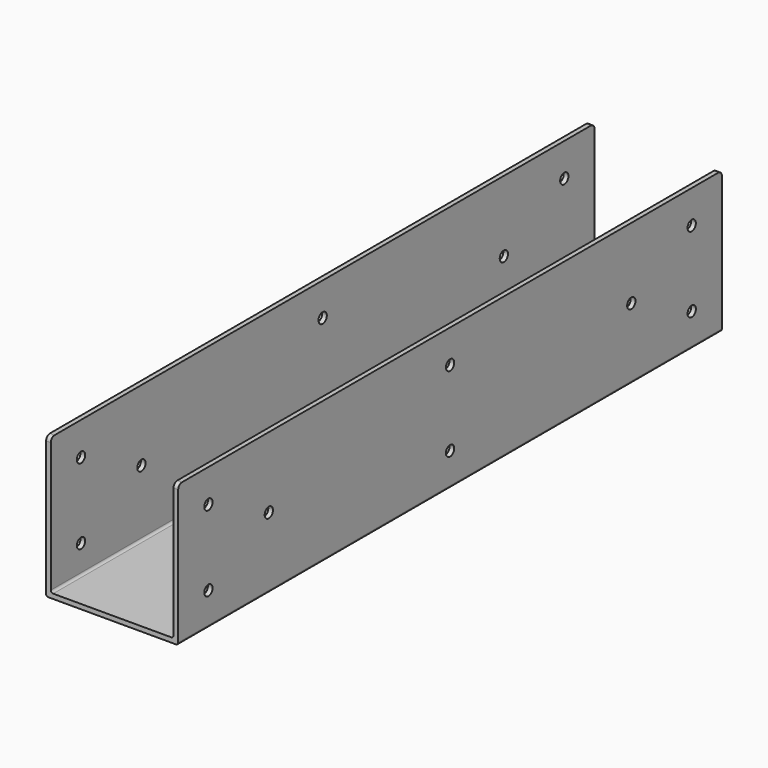
from build123d import *

# Parameters (mm, degrees)
F1_DEPTH = 914.4
F2_R     = 6.985
F3_DEPTH = 177.801
F4_R     = 3.175
F5_R     = 6.35


with BuildPart() as f1:
    # F0 (on Front) → F1 (new body)
    with BuildSketch(Plane.XZ):
        Polygon((82.55, 0), (-82.55, 0), (-82.55, 184.15), (-88.9, 184.15), (-88.9, -6.35), (88.9, -6.35), (88.9, 184.15), (82.55, 184.15), align=None)
    extrude(amount=-F1_DEPTH)

    # F2 (on face) → F3 (cut, through all)
    with BuildSketch(Plane.YZ.offset(88.9)):
        with Locations((50.8, 139.7)):
            Circle(F2_R)
        with Locations((152.4, 88.9)):
            Circle(F2_R)
        with Locations((457.2, 139.7)):
            Circle(F2_R)
        with Locations((50.8, 38.1)):
            Circle(F2_R)
        with Locations((457.2, 38.1)):
            Circle(F2_R)
        with Locations((762, 88.9)):
            Circle(F2_R)
        with Locations((863.6, 38.1)):
            Circle(F2_R)
        with Locations((863.6, 139.7)):
            Circle(F2_R)
    extrude(amount=-F3_DEPTH, mode=Mode.SUBTRACT)

    # F4
    f4_edges = [f1.edges().sort_by_distance(p)[0] for p in [
        (88.9, 457.2, -6.35),
        (-88.9, 457.2, -6.35),
        (-82.55, 457.2, 0),
        (82.55, 457.2, 0),
    ]]
    fillet(f4_edges, radius=F4_R)

    # F5
    f5_edges = [f1.edges().sort_by_distance(p)[0] for p in [
        (-85.725, 0, 184.15),
        (85.725, 0, 184.15),
        (85.725, 914.4, 184.15),
        (-85.725, 914.4, 184.15),
    ]]
    fillet(f5_edges, radius=F5_R)


solid = f1.part
